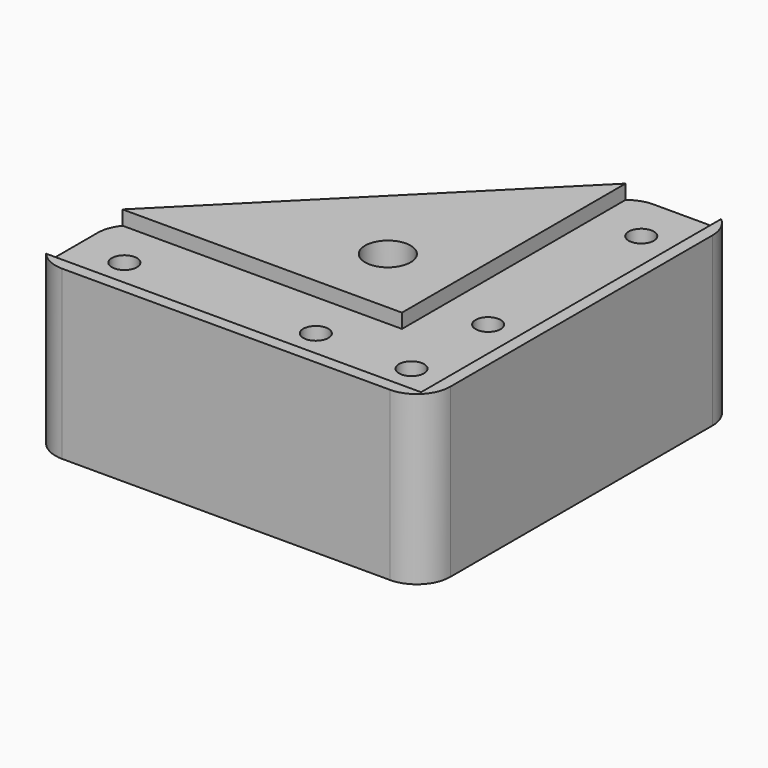
from build123d import *

# Parameters (mm, degrees)
SKETCH013_R          = 2.62
SKETCH013_R_2        = 2.65
PAD006_DEPTH         = 32
PAD006_DEPTH_BACK    = 3
SKETCH014_R          = 4.75
POCKET004_DEPTH      = 17
POCKET005_DEPTH      = 3.001
SKETCH109_R          = 4.75
POCKET055_DEPTH      = 22
POCKET055_DEPTH_BACK = 100


with BuildPart() as foot005:
    # Sketch013 → Pad006 (new body, two sides)
    with BuildSketch(Plane.XY) as pad006_sk:
        with BuildLine():
            Line((70, -5.5), (70, 5.5))
            ThreePointArc((70, 5.5), (69.467157, 8.178784), (67.949747, 10.449747))
            Line((67.949747, 10.449747), (10.449747, 67.949747))
            ThreePointArc((10.449747, 67.949747), (8.178784, 69.467157), (5.5, 70))
            Line((5.5, 70), (-5.5, 70))
            ThreePointArc((-5.5, 70), (-10.449747, 67.949747), (-12.5, 63))
            Line((-12.5, -5.5), (-12.5, 63))
            ThreePointArc((-12.5, -5.5), (-10.449747, -10.449747), (-5.5, -12.5))
            Line((-5.5, -12.5), (63, -12.5))
            ThreePointArc((63, -12.5), (67.949747, -10.449747), (70, -5.5))
        make_face()
        with Locations((20, 0)):
            Circle(SKETCH013_R, mode=Mode.SUBTRACT)
        with Locations((60, 0)):
            Circle(SKETCH013_R, mode=Mode.SUBTRACT)
        Circle(SKETCH013_R, mode=Mode.SUBTRACT)
        with Locations((0, 60)):
            Circle(SKETCH013_R, mode=Mode.SUBTRACT)
        with Locations((0, 20)):
            Circle(SKETCH013_R, mode=Mode.SUBTRACT)
        with Locations((24.748737, 24.748737)):
            Circle(SKETCH013_R_2, mode=Mode.SUBTRACT)
    extrude(amount=-PAD006_DEPTH)
    extrude(pad006_sk.sketch, amount=PAD006_DEPTH_BACK)

    # Sketch014 → Pocket004 (cut)
    with BuildSketch(Plane.XY.offset(-32)):
        with Locations((0, 60)):
            Circle(SKETCH014_R)
        Circle(SKETCH014_R)
        with Locations((20, 0)):
            Circle(SKETCH014_R)
        with Locations((60, 0)):
            Circle(SKETCH014_R)
        with Locations((0, 20)):
            Circle(SKETCH014_R)
    extrude(amount=POCKET004_DEPTH, mode=Mode.SUBTRACT)

    # Sketch016 → Pocket005 (cut, through all)
    with BuildSketch(Plane.XY):
        Polygon((10, 100), (10, 10), (140, 10), (140, -10), (-10, -10), (-10, 100), align=None)
    extrude(amount=POCKET005_DEPTH, mode=Mode.SUBTRACT)

    # Sketch109 → Pocket055 (cut, two sides)
    with BuildSketch(Plane.XY) as pocket055_sk:
        with Locations((24.748737, 24.748737)):
            Circle(SKETCH109_R)
    extrude(amount=-POCKET055_DEPTH, mode=Mode.SUBTRACT)
    extrude(pocket055_sk.sketch, amount=POCKET055_DEPTH_BACK, mode=Mode.SUBTRACT)


with BuildPart() as foot3:
    # Part__Mirroring001: instance of Foot005
    add(foot005.part.mirror(Plane(origin=(0, 0, 0), x_dir=(0, -1, 0), z_dir=(1, 0, 0))))


with BuildPart() as foot3_1:
    # Part__Mirroring001 placement: moved
    add(foot3.part.moved(Location((990, 0, 0))))


solid = foot3_1.part
